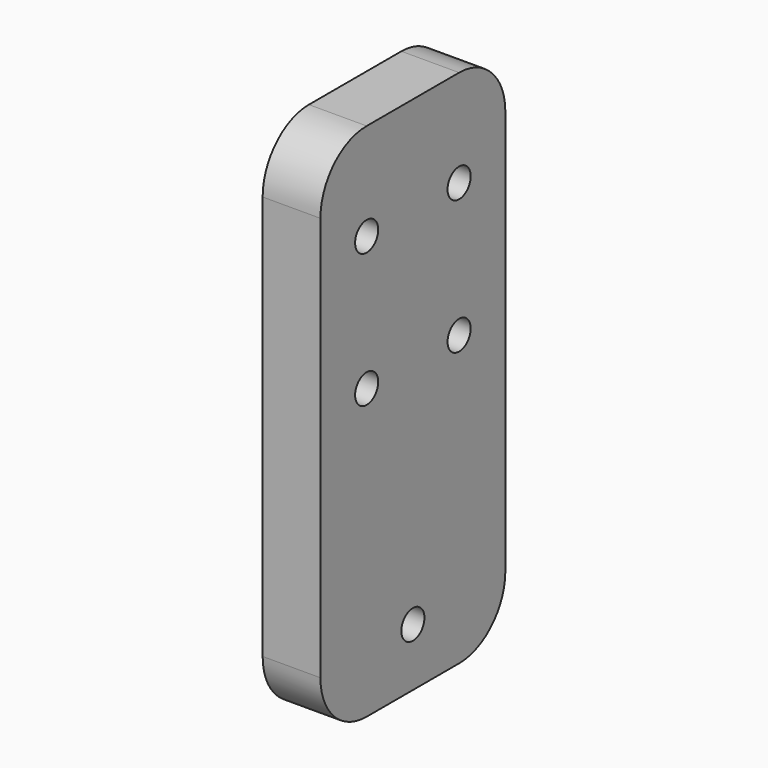
from build123d import *

# Parameters (mm, degrees)
F0_W     = 25.4
F0_H     = 57.15
F0_R     = 1.5875
F1_DEPTH = 6.35
F2_R     = 6.35
F3_R     = 6.35


with BuildPart() as f1:
    # F0 (on Right) → F1 (new body)
    with BuildSketch(Plane.YZ):
        Rectangle(F0_W, F0_H)
        with Locations((0, -22.225)):
            Circle(F0_R, mode=Mode.SUBTRACT)
        with Locations((-6.35, 3.175)):
            Circle(F0_R, mode=Mode.SUBTRACT)
        with Locations((-6.35, 17.907)):
            Circle(F0_R, mode=Mode.SUBTRACT)
        with Locations((6.35, 3.175)):
            Circle(F0_R, mode=Mode.SUBTRACT)
        with Locations((6.35, 17.907)):
            Circle(F0_R, mode=Mode.SUBTRACT)
    extrude(amount=F1_DEPTH)

    # F2
    f2_edges = [f1.edges().sort_by_distance(p)[0] for p in [
        (3.175, -12.7, 28.575),
        (3.175, 12.7, 28.575),
    ]]
    fillet(f2_edges, radius=F2_R)

    # F3
    f3_edges = [f1.edges().sort_by_distance(p)[0] for p in [
        (3.175, -12.7, -28.575),
        (3.175, 12.7, -28.575),
    ]]
    fillet(f3_edges, radius=F3_R)


solid = f1.part
